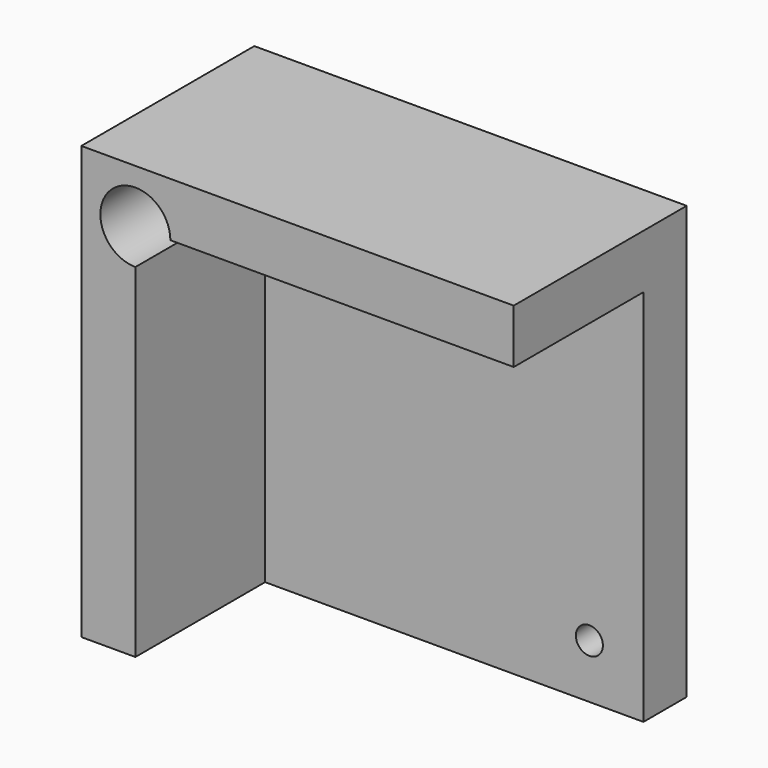
from build123d import *

# Parameters (mm, degrees)
F0_W     = 50.8
F0_H     = 50.8
F1_DEPTH = 25.4
F2_W     = 44.45
F2_H     = 44.45
F3_DEPTH = 19.05
F5_R     = 4.11241
F6_DEPTH = 19.1008
F4_R     = 1.5875
F7_DEPTH = 6.35


with BuildPart() as f1:
    # F0 (on Front) → F1 (new body)
    with BuildSketch(Plane.XZ):
        Rectangle(F0_W, F0_H)
    extrude(amount=F1_DEPTH)

    # F2 (on face) → F3 (cut)
    with BuildSketch(Plane.XZ.offset(25.4)):
        with Locations((3.175, -3.175)):
            Rectangle(F2_W, F2_H)
    extrude(amount=-F3_DEPTH, mode=Mode.SUBTRACT)

    # F5 (on face) → F6 (cut)
    with BuildSketch(Plane.XZ.offset(25.4)):
        with Locations((-19.05, 19.05)):
            Circle(F5_R)
    extrude(amount=-F6_DEPTH, mode=Mode.SUBTRACT)

    # F4 (on face) → F7 (cut)
    with BuildSketch(Plane.XZ.offset(6.35)):
        with Locations((19.05, -19.05)):
            Circle(F4_R)
    extrude(amount=-F7_DEPTH, mode=Mode.SUBTRACT)


solid = f1.part
